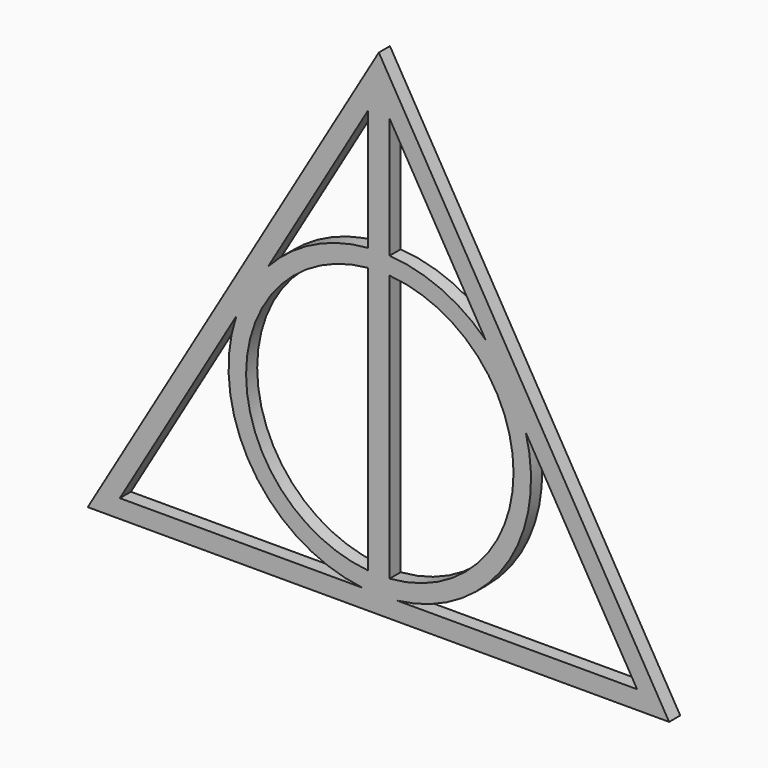
from build123d import *

# Parameters (mm, degrees)
F1_DEPTH = 2.5


with BuildPart() as f1:
    # F0 (on Front) → F1 (new body)
    with BuildSketch(Plane.XZ):
        Polygon((42.389926, 8.394053), (-9.838827, 97.432958), (-62.206484, 8.394053), align=None)
        Polygon((16.607858, 45.820797), (36.624869, 11.696054), (-6.56895, 11.696054), (-7.898982, 11.696054), (-11.791403, 11.696054), (-12.757268, 11.696054), (-56.433667, 11.696054), (-35.484269, 47.315586), (-29.714779, 57.12525), (-11.791403, 87.599742), (-9.842608, 90.91321), (-7.898982, 87.599742), (9.345976, 58.20076), align=None, mode=Mode.SUBTRACT)
        with BuildLine():
            Line((-12.757268, 11.696054), (-11.791403, 11.696054))
            Line((-11.791403, 11.696054), (-11.791403, 14.763876))
            ThreePointArc((-11.791403, 14.763876), (-33.72406, 38.730513), (-11.791403, 62.697151))
            Line((-11.791403, 62.697151), (-11.791403, 65.858104))
            ThreePointArc((-11.791403, 65.858104), (-21.581724, 63.19237), (-29.714779, 57.12525))
            Line((-29.714779, 57.12525), (-35.484269, 47.315586))
            ThreePointArc((-35.484269, 47.315586), (-32.602413, 24.094116), (-12.757268, 11.696054))
        make_face()
        Polygon((-11.791403, 11.696054), (-7.898982, 11.696054), (-7.898982, 14.734322), (-7.898982, 62.726705), (-7.898982, 65.884218), (-7.898982, 87.599742), (-9.842608, 90.91321), (-11.791403, 87.599742), (-11.791403, 65.858104), (-11.791403, 62.697151), (-11.791403, 14.763876), align=None)
        with BuildLine():
            ThreePointArc((-6.56895, 11.696054), (12.846937, 23.442164), (16.607858, 45.820797))
            Line((16.607858, 45.820797), (9.345976, 58.20076))
            ThreePointArc((9.345976, 58.20076), (1.411206, 63.586003), (-7.898982, 65.884218))
            Line((-7.898982, 65.884218), (-7.898982, 62.726705))
            ThreePointArc((-7.898982, 62.726705), (14.397842, 38.730513), (-7.898982, 14.734322))
            Line((-7.898982, 14.734322), (-7.898982, 11.696054))
            Line((-7.898982, 11.696054), (-6.56895, 11.696054))
        make_face()
    extrude(amount=F1_DEPTH)


solid = f1.part
